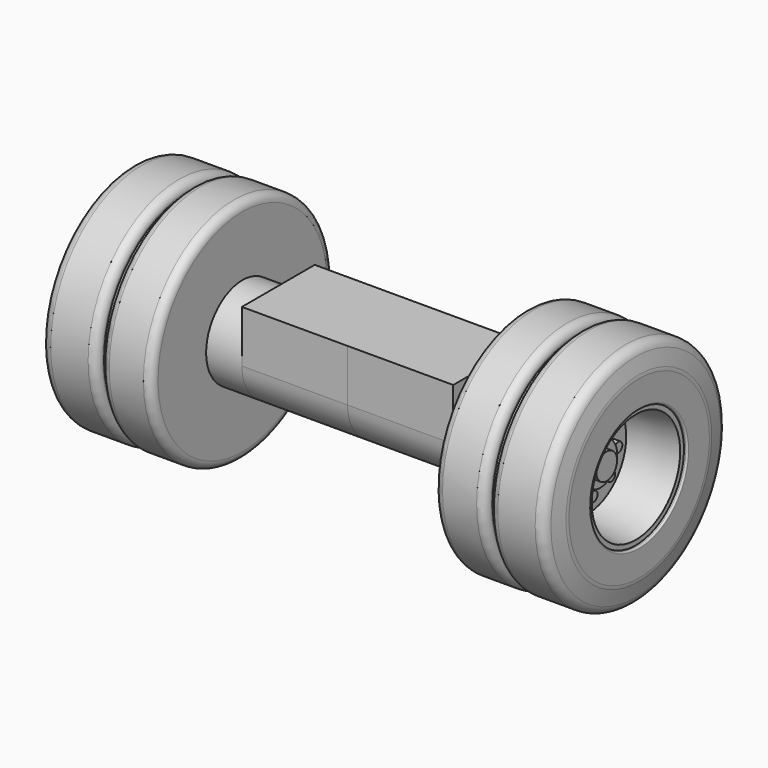
from build123d import *

# Parameters (mm, degrees)
F2_R     = 0.15
F3_DEPTH = 0.2
F4_COUNT = 8
F6_DEPTH = 3.25


with BuildPart() as f1:
    # F0 (on Front) → F1 (revolve)
    with BuildSketch(Plane.XZ):
        with BuildLine():
            Line((-3.6, 0), (0, 0))
            Line((0, 0), (0, 0.4))
            Line((0, 0.4), (-0.2, 0.4))
            Line((-0.2, 0.4), (-0.2, 0.65))
            Line((-0.2, 0.65), (-0.6, 0.65))
            Line((-0.6, 0.65), (-0.6, 1.5))
            Line((-0.6, 1.5), (0.9, 1.7))
            Line((0.9, 1.7), (0.9, 1.846541))
            Line((0.9, 1.846541), (0.953242, 1.85))
            ThreePointArc((0.953242, 1.85), (0.986483, 1.865705), (1, 1.899895))
            Line((1, 1.899895), (1, 2.7))
            ThreePointArc((1, 2.7), (0.997359, 2.751325), (0.989463, 2.802107))
            Line((0.989463, 2.802107), (0.893678, 3.261264))
            ThreePointArc((0.893678, 3.261264), (0.789236, 3.432787), (0.6, 3.5))
            Line((0.6, 3.5), (-0.55, 3.5))
            ThreePointArc((-0.55, 3.5), (-0.726777, 3.426777), (-0.8, 3.25))
            Line((-0.8, 3.25), (-0.8, 3.2))
            Line((-0.8, 3.2), (-0.95, 3.2))
            Line((-0.95, 3.2), (-0.95, 3.25))
            ThreePointArc((-0.95, 3.25), (-1.023223, 3.426777), (-1.2, 3.5))
            Line((-1.2, 3.5), (-2.25, 3.5))
            ThreePointArc((-2.25, 3.5), (-2.426777, 3.426777), (-2.5, 3.25))
            Line((-2.5, 3.25), (-2.5, 1.4))
            Line((-2.5, 1.4), (-3.6, 1.4))
            Line((-3.6, 1.4), (-3.6, 0))
        make_face()
    revolve(axis=Axis((-18.178367, 0, 0), (-1, 0, 0)))

    # F2 (on face) → F3 (join)
    with BuildSketch(Plane.YZ.offset(-0.6)):
        with Locations((0, 0.95)):
            Circle(F2_R)
    extrude(amount=F3_DEPTH)

    # F4: F1 ×8 about axis
    f4_axis = Axis((0, 0, 0), (-1, 0, 0))


with BuildPart() as f1_1:
    add(f1.part)
    for i in range(1, F4_COUNT):
        add(f1.part.rotate(f4_axis, i * 360 / F4_COUNT))

    # F5 (on face) → F6 (join)
    with BuildSketch(Plane(origin=(-3.6, 0, 0), x_dir=(0, -1, 0), z_dir=(-1, 0, 0))):
        with BuildLine():
            Line((-1.4, 1.6), (-1.4, 0))
            ThreePointArc((-1.4, 0), (0, -1.4), (1.4, 0))
            Line((1.4, 0), (1.4, 1.6))
            Line((1.4, 1.6), (-1.4, 1.6))
        make_face()
    extrude(amount=F6_DEPTH)

    # F7: F1 across face


with BuildPart() as f1_2:
    add(f1_1.part)
    add(f1_1.part.mirror(Plane(origin=(-6.85, 0, 0.232137), x_dir=(0, -1, 0), z_dir=(-1, 0, 0))))


solid = f1_2.part
